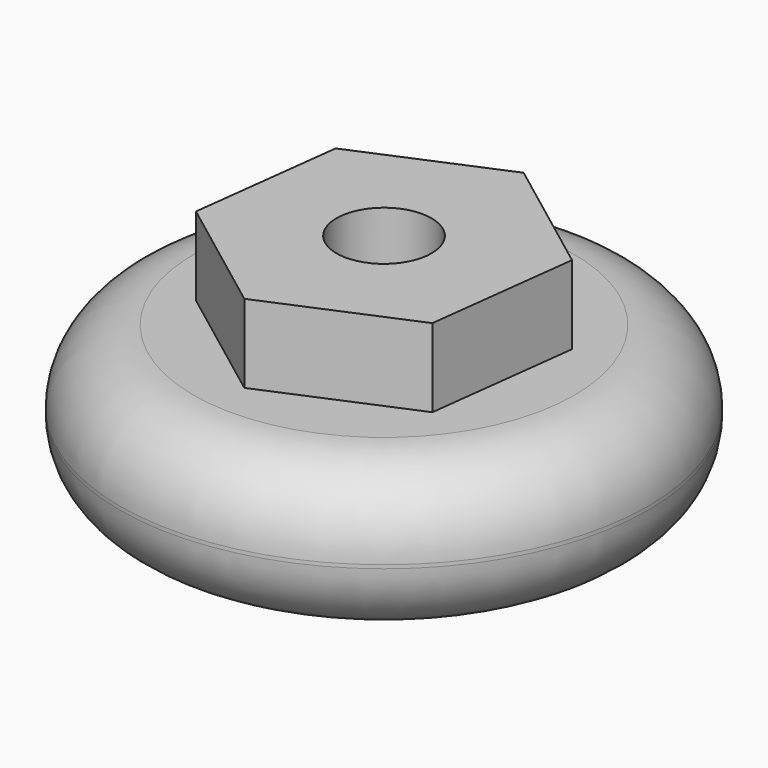
from build123d import *

# Parameters (mm, degrees)
F0_R     = 11.1125
F0_R_2   = 2
F1_DEPTH = 6.35
F2_R     = 2
F3_DEPTH = 3.3
F4_R     = 3.1


with BuildPart() as f1:
    # F0 (on Top) → F1 (new body)
    with BuildSketch(Plane.XY):
        Circle(F0_R)
        Circle(F0_R_2, mode=Mode.SUBTRACT)
    extrude(amount=F1_DEPTH)

    # F2 (on face) → F3 (join)
    with BuildSketch(Plane.XY.offset(6.35)):
        Polygon((-5.123777, 3.861277), (-5.905853, -2.506682), (-0.782076, -6.36796), (5.123777, -3.861277), (5.905853, 2.506682), (0.782076, 6.36796), align=None)
        Circle(F2_R, mode=Mode.SUBTRACT)
    extrude(amount=F3_DEPTH)

    # F4
    f4_edges = [f1.edges().sort_by_distance(p)[0] for p in [
        (-11.1125, 0, 0),
        (-11.1125, 0, 6.35),
    ]]
    fillet(f4_edges, radius=F4_R)


solid = f1.part
